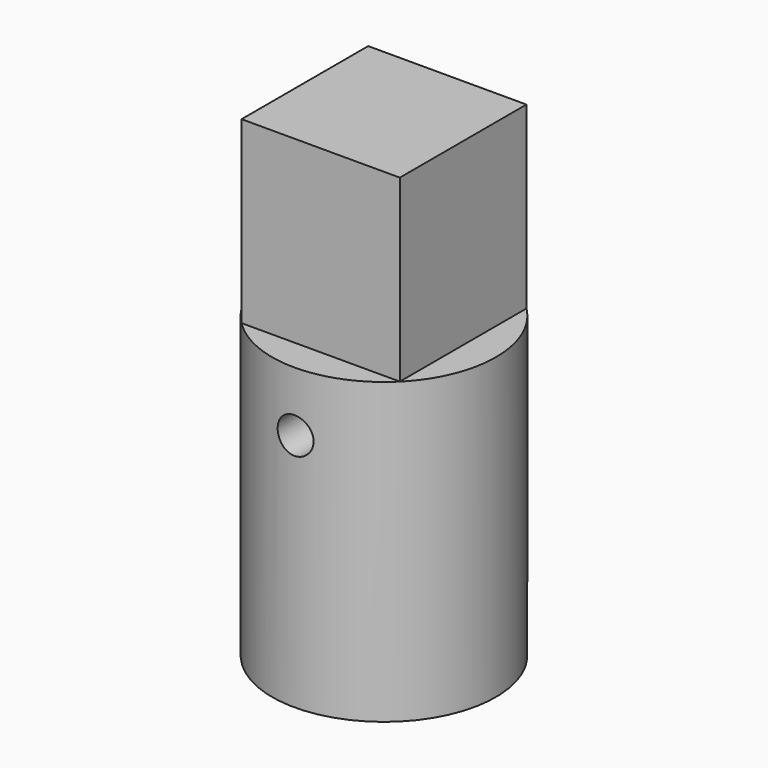
from build123d import *

# Parameters (mm, degrees)
BOX_W                    = 13.22
BOX_H                    = 13.22
BOX_DEPTH                = 40
CYLINDER_R               = 9.35
CYLINDER_DEPTH           = 25
CYLINDER_PLACEMENT_ANGLE = 315
SKETCH_R                 = 1.5
POCKET_DEPTH             = 2.741
POCKET_DEPTH_BACK        = 15.961


with BuildPart() as cube:
    # Box → Box (new body)
    with BuildSketch(Plane.XY):
        with Locations((6.61, 6.61)):
            Rectangle(BOX_W, BOX_H)
    extrude(amount=BOX_DEPTH)


with BuildPart() as body:
    # Cylinder → Cylinder (new body)
    with BuildSketch(Plane.XY):
        Circle(CYLINDER_R)
    extrude(amount=CYLINDER_DEPTH)


with BuildPart() as body_1:
    # Cylinder placement: moved
    add(body.part.moved(Location((6.61, 6.61, 0))).rotate(Axis((6.61, 6.61, 0), (0, 0, 1)), CYLINDER_PLACEMENT_ANGLE))

    # Fusion: union Cube
    add(cube.part)

    # Sketch (on Face6 of Fusion) → Pocket (cut, two sides)
    with BuildSketch(Plane(origin=(0, 13.22, 0), x_dir=(-1, 0, 0), z_dir=(0, 1, 0))) as pocket_sk:
        with Locations((-6.61, 20)):
            Circle(SKETCH_R)
    extrude(amount=POCKET_DEPTH, mode=Mode.SUBTRACT)
    extrude(pocket_sk.sketch, amount=-POCKET_DEPTH_BACK, mode=Mode.SUBTRACT)


solid = body_1.part
